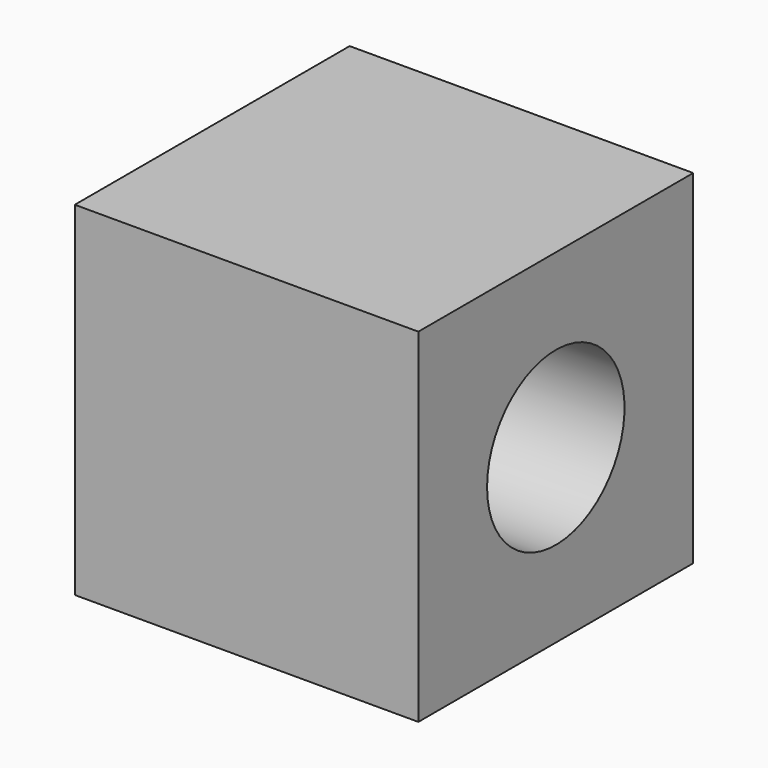
from build123d import *

# Parameters (mm, degrees)
F3_W     = 101.6
F3_H     = 101.6
F4_DEPTH = 50.8
F0_R     = 25.4
F5_DEPTH = 101.601
F1_R     = 12.7
F2_DEPTH = 101.6


with BuildPart() as f4:
    # F3 (on Front) → F4 (new body, symmetric)
    with BuildSketch(Plane.XZ):
        Rectangle(F3_W, F3_H)
    extrude(amount=F4_DEPTH, both=True)

    # F0 (on face) → F5 (cut, through all)
    with BuildSketch(Plane(origin=(-50.8, 0, 0), x_dir=(0, -1, 0), z_dir=(-1, 0, 0))):
        Circle(F0_R)
    extrude(amount=-F5_DEPTH, mode=Mode.SUBTRACT)

    # F1 (on face) → F2 (join)
    with BuildSketch(Plane.XY.offset(50.8)):
        Circle(F1_R)
    extrude(amount=-F2_DEPTH)


solid = f4.part
